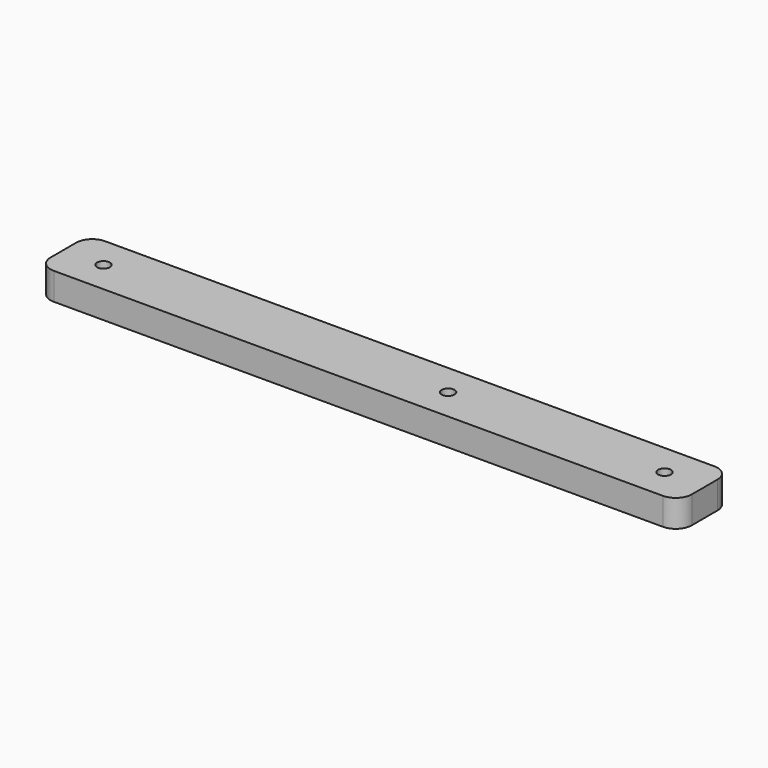
from build123d import *

# Parameters (mm, degrees)
F0_R     = 4
F1_DEPTH = 8.5


with BuildPart() as f1:
    # F0 (on Top) → F1 (new body, symmetric)
    with BuildSketch(Plane.XY):
        with BuildLine():
            Line((-190, -20), (190, -20))
            ThreePointArc((190, -20), (197.071068, -17.071068), (200, -10))
            Line((200, -10), (200, 10))
            ThreePointArc((200, 10), (197.071068, 17.071068), (190, 20))
            Line((190, 20), (-190, 20))
            ThreePointArc((-190, 20), (-197.071068, 17.071068), (-200, 10))
            Line((-200, 10), (-200, -10))
            ThreePointArc((-200, -10), (-197.071068, -17.071068), (-190, -20))
        make_face()
        with Locations((-175, 0)):
            Circle(F0_R, mode=Mode.SUBTRACT)
        with Locations((40, 0)):
            Circle(F0_R, mode=Mode.SUBTRACT)
        with Locations((175, 0)):
            Circle(F0_R, mode=Mode.SUBTRACT)
    extrude(amount=F1_DEPTH, both=True)


solid = f1.part
